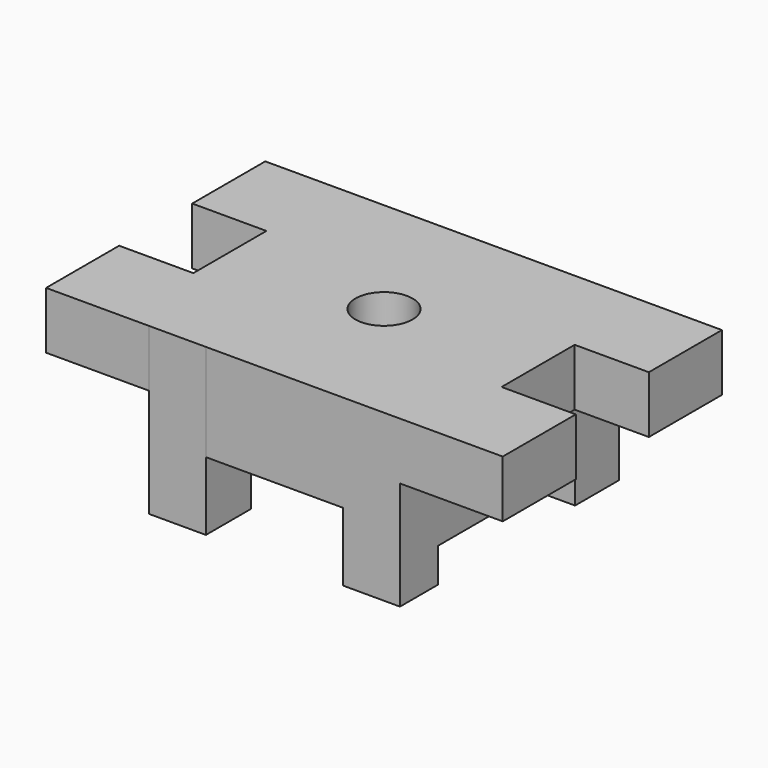
from build123d import *

# Parameters (mm, degrees)
F0_W     = 31.75
F0_H     = 29.327197
F0_H_2   = 91.63683
F0_H_3   = 31.435973
F0_R     = 15.875
F0_H_4   = 30.66496
F0_H_5   = 95.31568
F0_H_6   = 26.41936
F1_DEPTH = 92.075
F2_DEPTH = 60.325
F3_DEPTH = 38.1
F4_DEPTH = 19.05


with BuildPart() as f1:
    # F0 (on Top) → F1 (new body)
    with BuildSketch(Plane.XY):
        Polygon((-89.373001, 81.143687), (-146.523001, 81.143687), (-146.523001, 30.343687), (-105.248001, 30.343687), (-105.248001, -20.456313), (-146.523001, -20.456313), (-146.523001, -71.256313), (-89.373001, -71.256313), (-89.373001, -39.82034), (-89.373001, 51.81649), align=None)
        with Locations((-73.498001, 66.480088)):
            Rectangle(F0_W, F0_H)
        with Locations((-73.498001, 5.998075)):
            Rectangle(F0_W, F0_H_2)
        with Locations((-73.498001, -55.538326)):
            Rectangle(F0_W, F0_H_3)
        Polygon((18.576999, 81.143687), (-57.623001, 81.143687), (-57.623001, 51.81649), (-57.623001, -39.82034), (-57.623001, -71.256313), (18.576999, -71.256313), (18.576999, -44.836953), (18.576999, 50.478727), align=None)
        with Locations((-19.523001, 4.943687)):
            Circle(F0_R, mode=Mode.SUBTRACT)
        with Locations((34.451999, 65.811207)):
            Rectangle(F0_W, F0_H_4)
        with Locations((34.451999, 2.820887)):
            Rectangle(F0_W, F0_H_5)
        with Locations((34.451999, -58.046633)):
            Rectangle(F0_W, F0_H_6)
        Polygon((107.476999, 81.143687), (50.326999, 81.143687), (50.326999, 50.478727), (50.326999, -44.836953), (50.326999, -71.256313), (107.476999, -71.256313), (107.476999, -20.456313), (66.201999, -20.456313), (66.201999, 30.343687), (107.476999, 30.343687), align=None)
    extrude(amount=F1_DEPTH)

    # F0 (on Top) → F2 (cut)
    with BuildSketch(Plane.XY):
        Polygon((107.476999, 81.143687), (50.326999, 81.143687), (50.326999, 50.478727), (50.326999, -44.836953), (50.326999, -71.256313), (107.476999, -71.256313), (107.476999, -20.456313), (66.201999, -20.456313), (66.201999, 30.343687), (107.476999, 30.343687), align=None)
        Polygon((-89.373001, 81.143687), (-146.523001, 81.143687), (-146.523001, 30.343687), (-105.248001, 30.343687), (-105.248001, -20.456313), (-146.523001, -20.456313), (-146.523001, -71.256313), (-89.373001, -71.256313), (-89.373001, -39.82034), (-89.373001, 51.81649), align=None)
    extrude(amount=F2_DEPTH, mode=Mode.SUBTRACT)

    # F0 (on Top) → F3 (cut)
    with BuildSketch(Plane.XY):
        Polygon((18.576999, 81.143687), (-57.623001, 81.143687), (-57.623001, 51.81649), (-57.623001, -39.82034), (-57.623001, -71.256313), (18.576999, -71.256313), (18.576999, -44.836953), (18.576999, 50.478727), align=None)
        with Locations((-19.523001, 4.943687)):
            Circle(F0_R, mode=Mode.SUBTRACT)
    extrude(amount=F3_DEPTH, mode=Mode.SUBTRACT)

    # F0 (on Top) → F4 (cut)
    with BuildSketch(Plane.XY):
        with Locations((34.451999, 2.820887)):
            Rectangle(F0_W, F0_H_5)
        with Locations((-73.498001, 5.998075)):
            Rectangle(F0_W, F0_H_2)
    extrude(amount=F4_DEPTH, mode=Mode.SUBTRACT)


solid = f1.part
